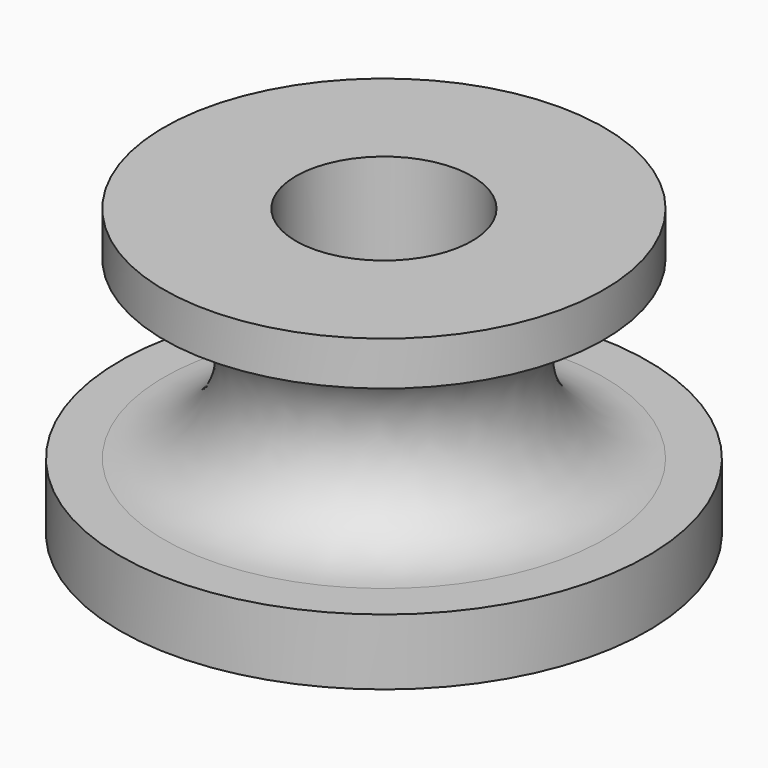
from build123d import *

# Parameters (mm, degrees)
F0_W = 5
F0_H = 1
F3_D = 4


with BuildPart() as f1:
    # F0 (on Right) → F1 (revolve)
    with BuildSketch(Plane.YZ):
        Polygon((5, 0), (0, 0), (0, -1.5), (6, -1.5), (6, 0), align=None)
        with BuildLine():
            Line((0, 4), (0, 0))
            Line((0, 0), (5, 0))
            ThreePointArc((5, 0), (3, 2), (5, 4))
            Line((5, 4), (0, 4))
        make_face()
        with Locations((2.5, 4.5)):
            Rectangle(F0_W, F0_H)
    revolve(axis=Axis((0, 0, 2), (0, 0, 1)))

    # F3 (through all)
    with Locations(Plane.XY.offset(5)):
        with Locations((0, 0)):
            Hole(F3_D / 2)


solid = f1.part
